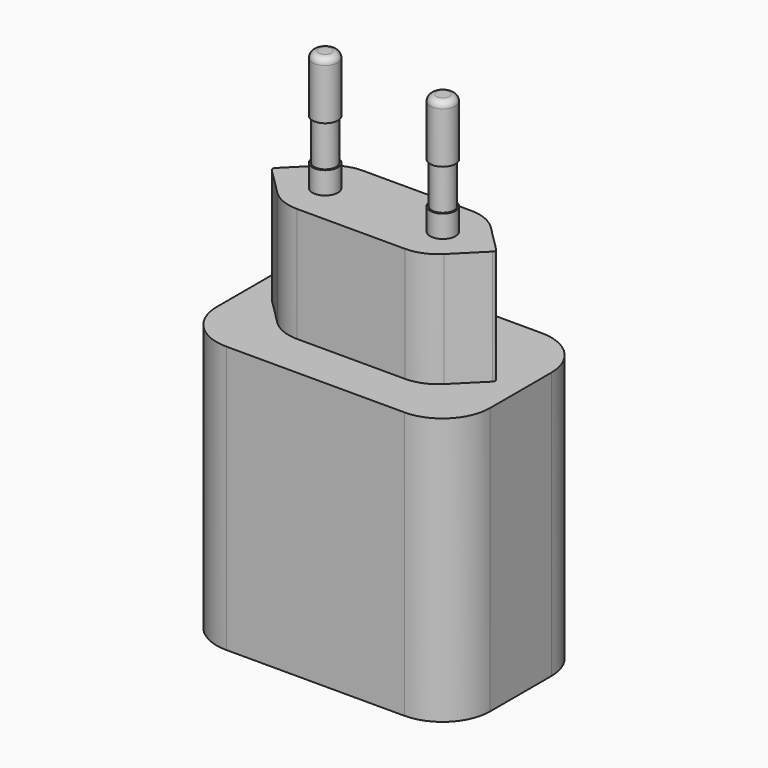
from build123d import *

# Parameters (mm, degrees)
PAD_DEPTH       = 42
PAD001_DEPTH    = 18
SKETCH002_R     = 2
PAD002_DEPTH    = 3.5
SKETCH003_R     = 1.75
PAD003_DEPTH    = 6.5
SKETCH004_R     = 2
PAD004_DEPTH    = 9
FILLET_R        = 1
POCKET_DEPTH    = 5
SKETCH006_W     = 4.5
SKETCH006_H     = 12
POCKET001_DEPTH = 10
SKETCH007_W     = 1.5
SKETCH007_H     = 11
PAD005_DEPTH    = 9
CHAMFER_SIZE    = 0.2


with BuildPart() as part:
    # Sketch → Pad (new body)
    with BuildSketch(Plane.XY):
        with BuildLine():
            ThreePointArc((-14, 13.5), (-19.303301, 11.303301), (-21.5, 6))
            Line((-21.5, -6), (-21.5, 6))
            ThreePointArc((-21.5, -6), (-19.303301, -11.303301), (-14, -13.5))
            Line((14, -13.5), (-14, -13.5))
            ThreePointArc((14, -13.5), (19.303301, -11.303301), (21.5, -6))
            Line((21.5, 6), (21.5, -6))
            ThreePointArc((21.5, 6), (19.303301, 11.303301), (14, 13.5))
            Line((-14, 13.5), (14, 13.5))
        make_face()
    extrude(amount=PAD_DEPTH)

    # Sketch001 (on Face10 of Pad) → Pad001 (join)
    with BuildSketch(Plane.XY.offset(42)):
        with BuildLine():
            Line((-8.5, 6.5), (8.5, 6.5))
            ThreePointArc((13.107614, 4.593401), (10.993252, 6.004526), (8.5, 6.5))
            Line((13.107614, 4.593401), (17.353299, 0.353807))
            ThreePointArc((17.353299, -0.353807), (17.5, 0), (17.353299, 0.353807))
            Line((17.353299, -0.353807), (13.107614, -4.593401))
            ThreePointArc((8.5, -6.5), (10.993252, -6.004526), (13.107614, -4.593401))
            Line((8.5, -6.5), (-8.5, -6.5))
            ThreePointArc((-13.107614, -4.593401), (-10.993252, -6.004526), (-8.5, -6.5))
            Line((-17.353299, -0.353807), (-13.107614, -4.593401))
            ThreePointArc((-17.353299, 0.353807), (-17.5, 0), (-17.353299, -0.353807))
            Line((-17.353299, 0.353807), (-13.107614, 4.593401))
            ThreePointArc((-8.5, 6.5), (-10.993252, 6.004526), (-13.107614, 4.593401))
        make_face()
    extrude(amount=PAD001_DEPTH)

    # Sketch002 (on Face23 of Pad001) → Pad002 (join)
    with BuildSketch(Plane.XY.offset(60)):
        with Locations((-9.25, 0)):
            Circle(SKETCH002_R)
        with Locations((9.25, 0)):
            Circle(SKETCH002_R)
    extrude(amount=PAD002_DEPTH)

    # Sketch003 (on Face27 of Pad002) → Pad003 (join)
    with BuildSketch(Plane.XY.offset(63.5)):
        with Locations((9.25, 0)):
            Circle(SKETCH003_R)
        with Locations((-9.25, 0)):
            Circle(SKETCH003_R)
    extrude(amount=PAD003_DEPTH)

    # Sketch004 (on Face31 of Pad003) → Pad004 (join)
    with BuildSketch(Plane.XY.offset(70)):
        with Locations((9.25, 0)):
            Circle(SKETCH004_R)
        with Locations((-9.25, 0)):
            Circle(SKETCH004_R)
    extrude(amount=PAD004_DEPTH)

    # Fillet
    fillet_edges = [part.edges().sort_by_distance(p)[0] for p in [
        (-11.25, 0, 79),
        (7.25, 0, 79),
    ]]
    fillet(fillet_edges, radius=FILLET_R)

    # Sketch005 (on Face33 of Fillet) → Pocket (cut)
    with BuildSketch(Plane(origin=(0, 0, 0), x_dir=(1, 0, 0), z_dir=(0, 0, -1))):
        with BuildLine():
            ThreePointArc((-13.5, 12), (-18.096194, 10.096194), (-20, 5.5))
            Line((-20, -5.5), (-20, 5.5))
            ThreePointArc((-20, -5.5), (-18.096194, -10.096194), (-13.5, -12))
            Line((13.5, -12), (-13.5, -12))
            ThreePointArc((13.5, -12), (18.096194, -10.096194), (20, -5.5))
            Line((20, 5.5), (20, -5.5))
            ThreePointArc((20, 5.5), (18.096194, 10.096194), (13.5, 12))
            Line((-13.5, 12), (13.5, 12))
        make_face()
        with BuildLine():
            ThreePointArc((-13.5, 11.75), (-17.919417, 9.919417), (-19.75, 5.5))
            Line((-19.75, -5.5), (-19.75, 5.5))
            ThreePointArc((-19.75, -5.5), (-17.919417, -9.919417), (-13.5, -11.75))
            Line((13.5, -11.75), (-13.5, -11.75))
            ThreePointArc((13.5, -11.75), (17.919417, -9.919417), (19.75, -5.5))
            Line((19.75, 5.5), (19.75, -5.5))
            ThreePointArc((19.75, 5.5), (17.919417, 9.919417), (13.5, 11.75))
            Line((-13.5, 11.75), (13.5, 11.75))
        make_face(mode=Mode.SUBTRACT)
    extrude(amount=-POCKET_DEPTH, mode=Mode.SUBTRACT)

    # Sketch006 (on Face55 of Pocket) → Pocket001 (cut)
    with BuildSketch(Plane(origin=(0, 0, 0), x_dir=(1, 0, 0), z_dir=(0, 0, -1))):
        with Locations((-7.75, 0)):
            Rectangle(SKETCH006_W, SKETCH006_H)
    extrude(amount=-POCKET001_DEPTH, mode=Mode.SUBTRACT)

    # Sketch007 (on Face60 of Pocket001) → Pad005 (join)
    with BuildSketch(Plane(origin=(0, 0, 10), x_dir=(1, 0, 0), z_dir=(0, 0, -1))):
        with Locations((-6.75, 0)):
            Rectangle(SKETCH007_W, SKETCH007_H)
    extrude(amount=PAD005_DEPTH)

    # Chamfer
    chamfer_edges = [part.edges().sort_by_distance(p)[0] for p in [
        (-7.5, 0, 1),
        (-6.75, 5.5, 1),
        (-6, 0, 1),
        (-6.75, -5.5, 1),
    ]]
    chamfer(chamfer_edges, length=CHAMFER_SIZE)


solid = part.part
